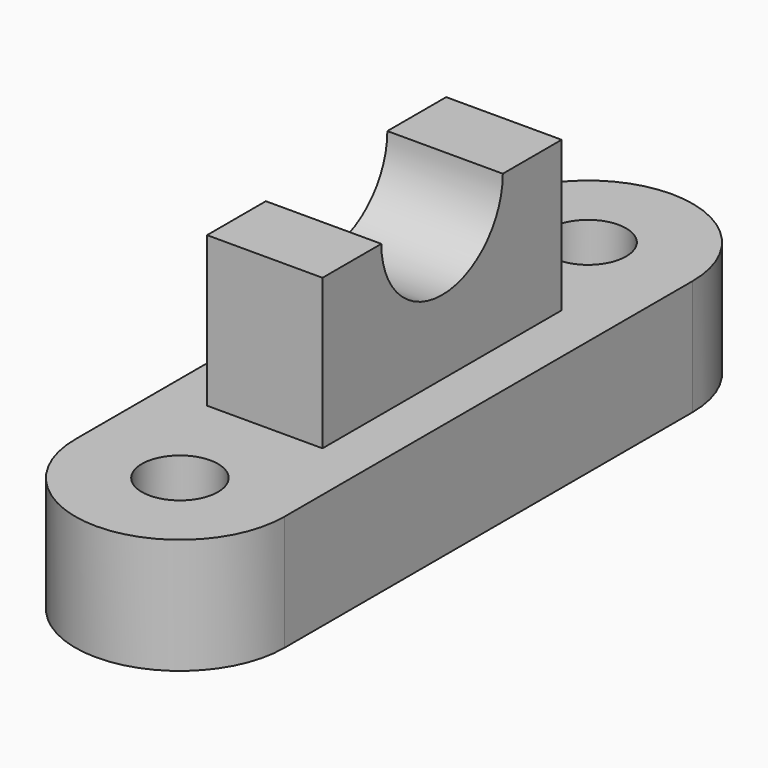
from build123d import *

# Parameters (mm, degrees)
F0_R     = 8.380723
F1_DEPTH = 25.4
F3_DEPTH = 12.7


with BuildPart() as f1:
    # F0 (on Top) → F1 (new body)
    with BuildSketch(Plane.XY):
        with BuildLine():
            Line((23.022283, -43.549832), (23.022283, 68.680234))
            ThreePointArc((23.022283, 68.680234), (0, 91.702517), (-23.022283, 68.680234))
            Line((-23.022283, 68.680234), (-23.022283, -43.549832))
            ThreePointArc((-23.022283, -43.549832), (0, -66.572115), (23.022283, -43.549832))
        make_face()
        with Locations((0, -43.549832)):
            Circle(F0_R, mode=Mode.SUBTRACT)
        with Locations((0, 68.680234)):
            Circle(F0_R, mode=Mode.SUBTRACT)
    extrude(amount=F1_DEPTH)


with BuildPart() as f3:
    # F2 (on Right) → F3 (new body, symmetric)
    with BuildSketch(Plane.YZ):
        with BuildLine():
            Line((-20.22025, 25.77696), (45.534149, 25.77696))
            Line((45.534149, 25.77696), (45.534149, 58.808509))
            Line((45.534149, 58.808509), (29.362054, 58.808509))
            ThreePointArc((29.362054, 58.808509), (12.656949, 42.103404), (-4.048156, 58.808509))
            Line((-4.048156, 58.808509), (-20.22025, 58.808509))
            Line((-20.22025, 58.808509), (-20.22025, 25.77696))
        make_face()
    extrude(amount=F3_DEPTH, both=True)


solid = Compound([f1.part, f3.part])
